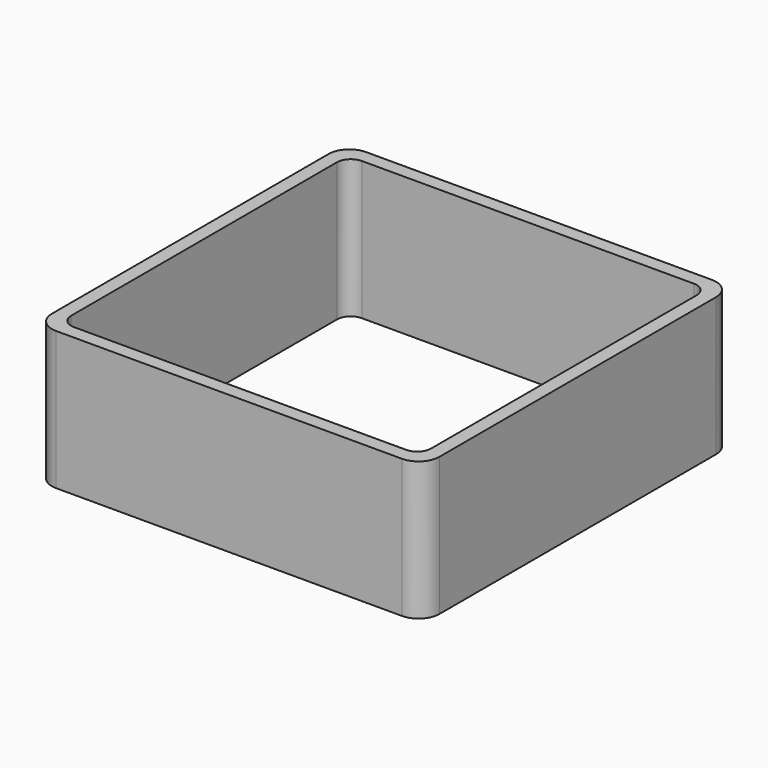
from build123d import *

# Parameters (mm, degrees)
EXTRUDE_DEPTH = 50


with BuildPart() as part:
    # Sketch → Extrude (new body)
    with BuildSketch(Plane.XY):
        with BuildLine():
            Line((-62.5, 70), (62.5, 70))
            ThreePointArc((70, 62.5), (67.803301, 67.803301), (62.5, 70))
            Line((70, 62.5), (70, -62.5))
            ThreePointArc((62.5, -70), (67.803301, -67.803301), (70, -62.5))
            Line((62.5, -70), (-62.5, -70))
            ThreePointArc((-70, -62.5), (-67.803301, -67.803301), (-62.5, -70))
            Line((-70, -62.5), (-70, 62.5))
            ThreePointArc((-62.5, 70), (-67.803301, 67.803301), (-70, 62.5))
        make_face()
        with BuildLine():
            Line((-60, 65), (60, 65))
            ThreePointArc((65, 60), (63.535534, 63.535534), (60, 65))
            Line((65, 60), (65, -60))
            ThreePointArc((60, -65), (63.535534, -63.535534), (65, -60))
            Line((60, -65), (-60, -65))
            ThreePointArc((-65, -60), (-63.535534, -63.535534), (-60, -65))
            Line((-65, -60), (-65, 60))
            ThreePointArc((-60, 65), (-63.535534, 63.535534), (-65, 60))
        make_face(mode=Mode.SUBTRACT)
    extrude(amount=EXTRUDE_DEPTH)


solid = part.part
